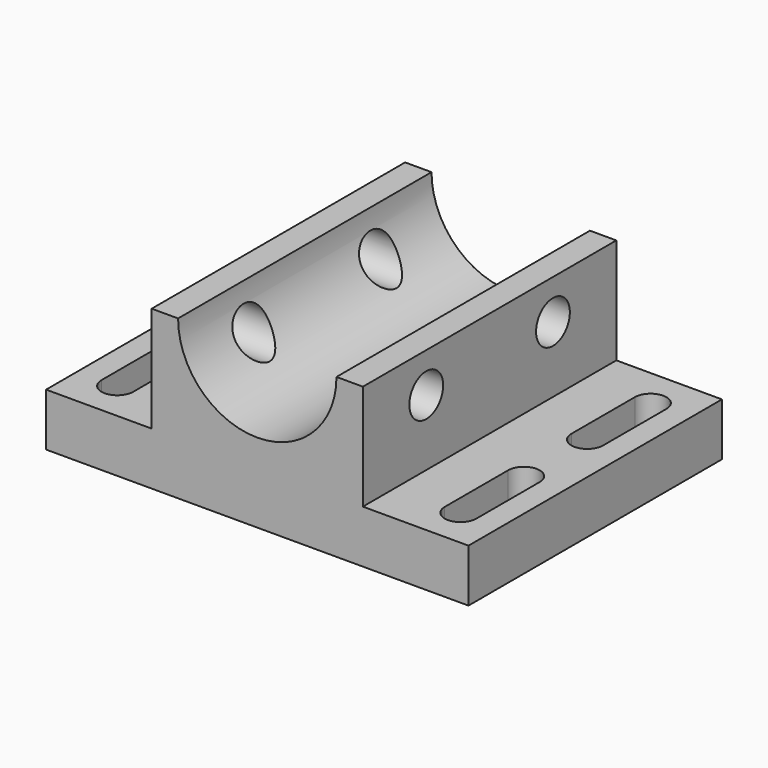
from build123d import *

# Parameters (mm, degrees)
F1_DEPTH = 60
F3_DEPTH = 20
F5_DEPTH = 20
F6_R     = 8
F7_DEPTH = 80


with BuildPart() as f1:
    # F0 (on Front) → F1 (new body)
    with BuildSketch(Plane.XZ):
        with BuildLine():
            Line((-71.441528, 48.114919), (-81.441528, 48.114919))
            Line((-81.441528, 48.114919), (-81.441528, 8.114919))
            Line((-81.441528, 8.114919), (-121.441528, 8.114919))
            Line((-121.441528, 8.114919), (-121.441528, -11.885081))
            Line((-121.441528, -11.885081), (38.558472, -11.885081))
            Line((38.558472, -11.885081), (38.558472, 8.114919))
            Line((38.558472, 8.114919), (-1.441528, 8.114919))
            Line((-1.441528, 8.114919), (-1.441528, 48.114919))
            Line((-1.441528, 48.114919), (-11.441528, 48.114919))
            ThreePointArc((-11.441528, 48.114919), (-41.441528, 18.114919), (-71.441528, 48.114919))
        make_face()
    extrude(amount=F1_DEPTH)

    # F2 (on face) → F3 (cut)
    with BuildSketch(Plane.XY.offset(8.114919)):
        with BuildLine():
            Line((29.558472, -45), (29.558472, -15))
            ThreePointArc((29.558472, -15), (23.558472, -9), (17.558472, -15))
            Line((17.558472, -15), (17.558472, -45))
            ThreePointArc((17.558472, -45), (23.558472, -51), (29.558472, -45))
        make_face()
    extrude(amount=-F3_DEPTH, mode=Mode.SUBTRACT)

    # F4 (on face) → F5 (cut)
    with BuildSketch(Plane.XY.offset(8.114919)):
        with BuildLine():
            Line((-112.441528, -15), (-112.441528, -45))
            ThreePointArc((-112.441528, -45), (-106.441528, -51), (-100.441528, -45))
            Line((-100.441528, -45), (-100.441528, -15))
            ThreePointArc((-100.441528, -15), (-106.441528, -9), (-112.441528, -15))
        make_face()
    extrude(amount=-F5_DEPTH, mode=Mode.SUBTRACT)

    # F6 (on face) → F7 (cut)
    with BuildSketch(Plane.YZ.offset(-1.441528)):
        with Locations((-30, 33.114919)):
            Circle(F6_R)
    extrude(amount=-F7_DEPTH, mode=Mode.SUBTRACT)

    # F8: F1 across face


with BuildPart() as f1_1:
    add(f1.part)
    add(f1.part.mirror(Plane(origin=(-41.441528, -60, 6.801582), x_dir=(1, 0, 0), z_dir=(0, -1, 0))))


solid = f1_1.part
